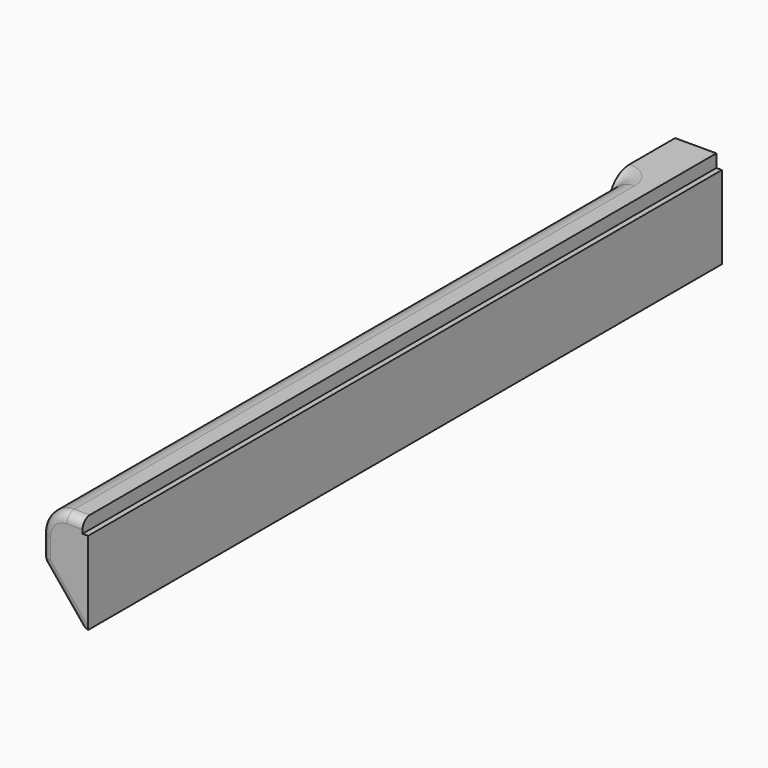
from build123d import *

# Parameters (mm, degrees)
F1_DEPTH = 430
F3_W     = 14
F3_H     = 3.9684094482
F5_DEPTH = 385.0010001
F6_R     = 5


with BuildPart() as f1:
    # F0 (on Front) → F1 (new body)
    with BuildSketch(Plane.XZ):
        with BuildLine():
            Line((-3.0895532303, -0.0301503569), (-25.4895532303, -0.0301503569))
            Line((-25.4895532303, -0.0301503569), (-25.4895532303, -25.2490202056))
            ThreePointArc((-25.4895532303, -25.2490202056), (-25.1996290257, -26.9268718085), (-24.3634788298, -28.4101434948))
            Line((-24.3634788298, -28.4101434948), (-5.0895532303, -52.0301503569))
            Line((-5.0895532303, -52.0301503569), (-0.0895532303, -52.0301503569))
            Line((-0.0895532303, -52.0301503569), (-0.0895532303, -7.0301503569))
            Line((-0.0895532303, -7.0301503569), (-3.0895532303, -7.0301503569))
            Line((-3.0895532303, -7.0301503569), (-3.0895532303, -0.0301503569))
        make_face()
    extrude(amount=-F1_DEPTH)

    # F3 (on offset) → F4 (revolve, cut)
    with BuildSketch(Plane(origin=(0, 385, 0), x_dir=(-1, 0, 0), z_dir=(0, 1, 0))):
        with BuildLine():
            Line((25.4895532303, -14.0301503569), (25.4895532303, -0.0301503569))
            Line((25.4895532303, -0.0301503569), (11.4895532303, -0.0301503569))
            ThreePointArc((11.4895532303, -0.0301503569), (21.3890481669, -4.1306554203), (25.4895532303, -14.0301503569))
        make_face()
        with Locations((18.4895532303, 1.9540543671)):
            Rectangle(F3_W, F3_H)
    revolve(axis=Axis((-25.4895532303, 385, -5.0459456329), (0, 0, -1)), mode=Mode.SUBTRACT)

    # F3 (on offset) → F5 (cut, through all)
    with BuildSketch(Plane(origin=(0, 385, 0), x_dir=(-1, 0, 0), z_dir=(0, 1, 0))):
        with BuildLine():
            Line((25.4895532303, -14.0301503569), (25.4895532303, -0.0301503569))
            Line((25.4895532303, -0.0301503569), (11.4895532303, -0.0301503569))
            ThreePointArc((11.4895532303, -0.0301503569), (21.3890481669, -4.1306554203), (25.4895532303, -14.0301503569))
        make_face()
        with Locations((18.4895532303, 1.9540543671)):
            Rectangle(F3_W, F3_H)
    extrude(amount=-F5_DEPTH, mode=Mode.SUBTRACT)

    # F6
    f6_edges = [f1.edges().sort_by_distance(p)[0] for p in [
        (-7.289553, 0, -0.03015),
    ]]
    fillet(f6_edges, radius=F6_R)


solid = f1.part
